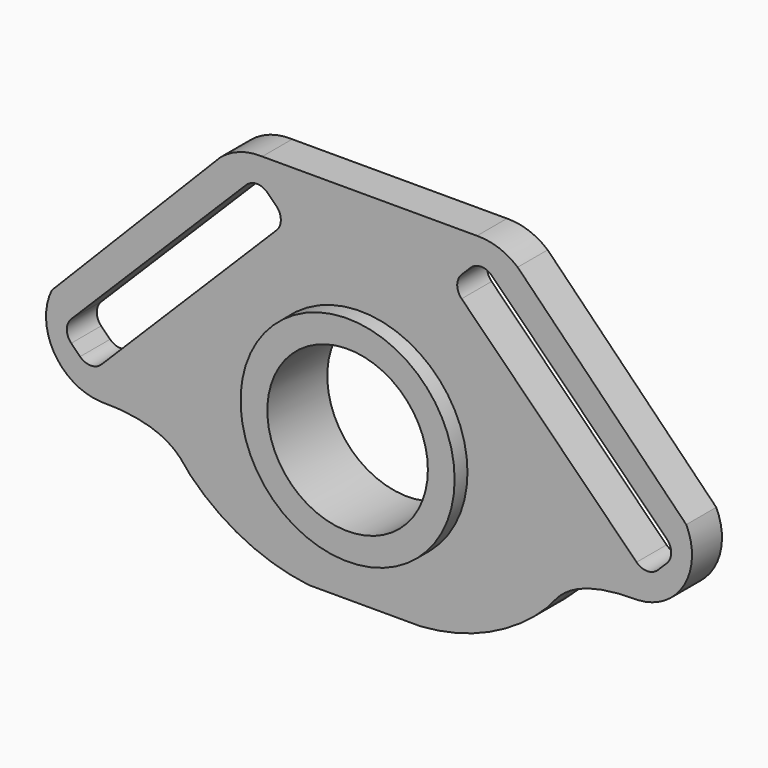
from build123d import *

# Parameters (mm, degrees)
F0_R     = 7.5
F1_DEPTH = 1.75
F2_R     = 8.5
F2_R_2   = 7.5
F3_DEPTH = 2.75
F4_R     = 10
F4_R_2   = 7.5
F5_DEPTH = 1.5


with BuildPart() as f1:
    # F0 (on Front) → F1 (new body, symmetric)
    with BuildSketch(Plane.XZ):
        with BuildLine():
            Line((-13.891386, 16.048208), (-29.641638, 0))
            ThreePointArc((-29.641638, 0), (-29.452592, -5.025263), (-25.179131, -7.676025))
            add(Edge.make_bspline(
                [(-25.179131, -7.676025), (-18.558836, -7.633325), (-17.581457, -10.063985), (-16.679482, -11.024288)],
                knots=[0, 0, 0, 0, 9.135366, 9.135366, 9.135366, 9.135366], degree=3))
            ThreePointArc((-16.679482, -11.024288), (-11.621852, -14.676658), (-5.63849, -16.44267))
            Line((-5.63849, -16.44267), (4.816984, -16.44267))
            ThreePointArc((4.816984, -16.44267), (11.240893, -14.812063), (16.679482, -11.024288))
            add(Edge.make_bspline(
                [(25.179131, -7.676025), (18.558836, -7.633325), (17.581457, -10.063985), (16.679482, -11.024288)],
                knots=[0, 0, 0, 0, 9.135366, 9.135366, 9.135366, 9.135366], degree=3))
            ThreePointArc((25.179131, -7.676025), (29.452592, -5.025263), (29.641638, 0))
            Line((29.641638, 0), (13.891386, 16.048208))
            ThreePointArc((13.891386, 16.048208), (12.113511, 17.071286), (10.087852, 17.394136))
            Line((10.087852, 17.394136), (-9.978892, 17.39047))
            ThreePointArc((-9.978892, 17.39047), (-12.062035, 17.089223), (-13.891386, 16.048208))
        make_face()
        with Locations((0, -1.673267)):
            Circle(F0_R, mode=Mode.SUBTRACT)
        with BuildLine():
            Line((-8.652875, 11.747209), (-25.002061, -4.602077))
            ThreePointArc((-25.002061, -4.602077), (-25.997431, -5.014338), (-26.992801, -4.602077))
            Line((-26.992801, -4.602077), (-27.823672, -3.771305))
            ThreePointArc((-27.823672, -3.771305), (-28.235982, -2.775914), (-27.823572, -1.780565))
            Line((-27.823572, -1.780565), (-11.474387, 14.56872))
            ThreePointArc((-11.474387, 14.56872), (-10.479017, 14.980981), (-9.483647, 14.56872))
            Line((-9.483647, 14.56872), (-8.652775, 13.737948))
            ThreePointArc((-8.652775, 13.737948), (-8.240465, 12.742558), (-8.652875, 11.747209))
        make_face(mode=Mode.SUBTRACT)
        with BuildLine():
            ThreePointArc((9.483647, 14.56872), (10.479017, 14.980981), (11.474387, 14.56872))
            Line((11.474387, 14.56872), (27.823572, -1.780565))
            ThreePointArc((27.823572, -1.780565), (28.235982, -2.775914), (27.823672, -3.771305))
            Line((27.823672, -3.771305), (26.992801, -4.602077))
            ThreePointArc((26.992801, -4.602077), (25.997431, -5.014338), (25.002061, -4.602077))
            Line((25.002061, -4.602077), (8.652875, 11.747209))
            ThreePointArc((8.652875, 11.747209), (8.240465, 12.742558), (8.652775, 13.737948))
            Line((8.652775, 13.737948), (9.483647, 14.56872))
        make_face(mode=Mode.SUBTRACT)
    extrude(amount=F1_DEPTH, both=True)

    # F2 (on Front) → F3 (join, symmetric)
    with BuildSketch(Plane.XZ):
        with Locations((0, -1.673267)):
            Circle(F2_R)
        with Locations((0, -1.673267)):
            Circle(F2_R_2, mode=Mode.SUBTRACT)
    extrude(amount=F3_DEPTH, both=True)

    # F4 (on face) → F5 (join)
    with BuildSketch(Plane.XZ.offset(2.75)):
        with Locations((0, -1.673267)):
            Circle(F4_R)
        with Locations((0, -1.673267)):
            Circle(F4_R_2, mode=Mode.SUBTRACT)
    extrude(amount=F5_DEPTH)


solid = f1.part
